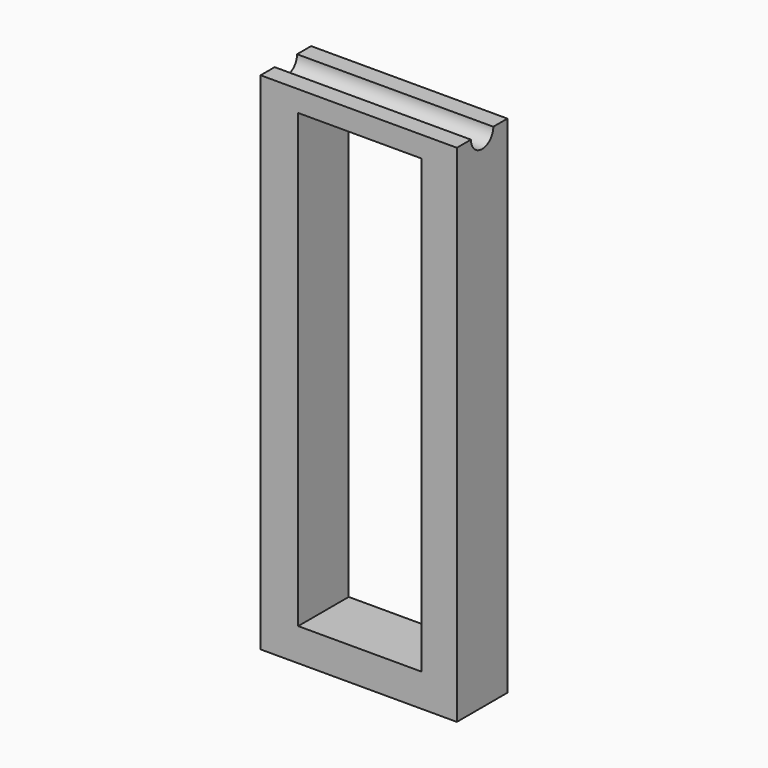
from build123d import *

# Parameters (mm, degrees)
F0_W     = 9.906
F0_H     = 36.322
F1_DEPTH = 5.08
F2_R     = 1.124354
F3_DEPTH = 25.4


with BuildPart() as f1:
    # F0 (on Front) → F1 (new body)
    with BuildSketch(Plane.XZ):
        Polygon((-7.89122, 0), (-4.869051, 0), (0, 0), (7.89122, 0), (7.89122, 40.64), (-7.89122, 40.64), align=None)
        with Locations((0.083949, 20.794085)):
            Rectangle(F0_W, F0_H, mode=Mode.SUBTRACT)
    extrude(amount=F1_DEPTH)

    # F2 (on face) → F3 (cut)
    with BuildSketch(Plane.YZ.offset(7.89122)):
        with Locations((-2.54, 40.64)):
            Circle(F2_R)
    extrude(amount=-F3_DEPTH, mode=Mode.SUBTRACT)


solid = f1.part
